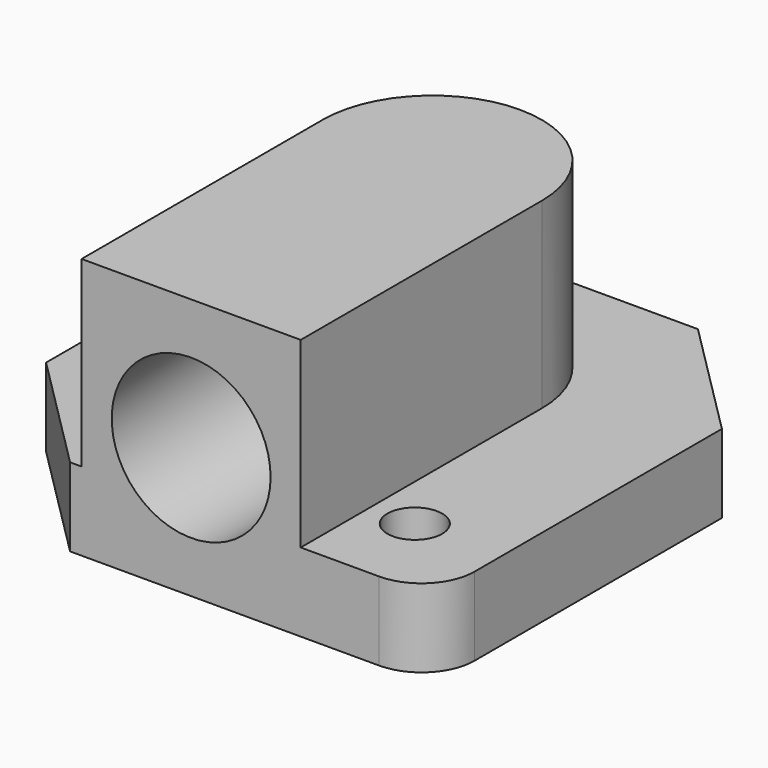
from build123d import *

# Parameters (mm, degrees)
F1_DEPTH = 9.0932
F3_DEPTH = 21.1836
F4_R     = 3.175
F5_DEPTH = 9.0942
F6_R     = 9.2075
F7_DEPTH = 28.575
F8_R     = 7.874
F9_DEPTH = 5.08


with BuildPart() as f1:
    # F0 (on Top) → F1 (new body)
    with BuildSketch(Plane.XY):
        Polygon((-27.94, 27.94), (-27.94, -14.033717), (-14.033717, -27.94), (27.94, -27.94), (27.94, 14.033717), (14.033717, 27.94), align=None)
    extrude(amount=F1_DEPTH)

    # F2 (on face) → F3 (join)
    with BuildSketch(Plane.XY.offset(9.0932)):
        with BuildLine():
            ThreePointArc((12.7, 6.985), (0, 19.685), (-12.7, 6.985))
            Line((-12.7, 6.985), (-12.7, -27.94))
            Line((-12.7, -27.94), (12.7, -27.94))
            Line((12.7, -27.94), (12.7, 6.985))
        make_face()
    extrude(amount=F3_DEPTH)

    # F4 (on face) → F5 (cut, through all)
    with BuildSketch(Plane.XY.offset(9.0932)):
        with BuildLine():
            Line((-27.94, 27.94), (-27.94, 21.799624))
            ThreePointArc((-27.94, 21.799624), (-26.141526, 26.141526), (-21.799624, 27.94))
            Line((-21.799624, 27.94), (-27.94, 27.94))
        make_face()
        with BuildLine():
            ThreePointArc((27.94, -21.799624), (26.141526, -26.141526), (21.799624, -27.94))
            Line((21.799624, -27.94), (27.94, -27.94))
            Line((27.94, -27.94), (27.94, -21.799624))
        make_face()
        with Locations((-17.843769, 17.843769)):
            Circle(F4_R)
        with Locations((17.843769, -17.843769)):
            Circle(F4_R)
    extrude(amount=-F5_DEPTH, mode=Mode.SUBTRACT)

    # F6 (on face) → F7 (cut)
    with BuildSketch(Plane.XZ.offset(27.94)):
        with Locations((0, 15.1384)):
            Circle(F6_R)
    extrude(amount=-F7_DEPTH, mode=Mode.SUBTRACT)

    # F8 (on face) → F9 (cut)
    with BuildSketch(Plane(origin=(0, 0, 0), x_dir=(1, 0, 0), z_dir=(0, 0, -1))):
        with Locations((8.351638, -8.351638)):
            Circle(F8_R)
        with Locations((-8.351638, 8.351638)):
            Circle(F8_R)
    extrude(amount=-F9_DEPTH, mode=Mode.SUBTRACT)


solid = f1.part
